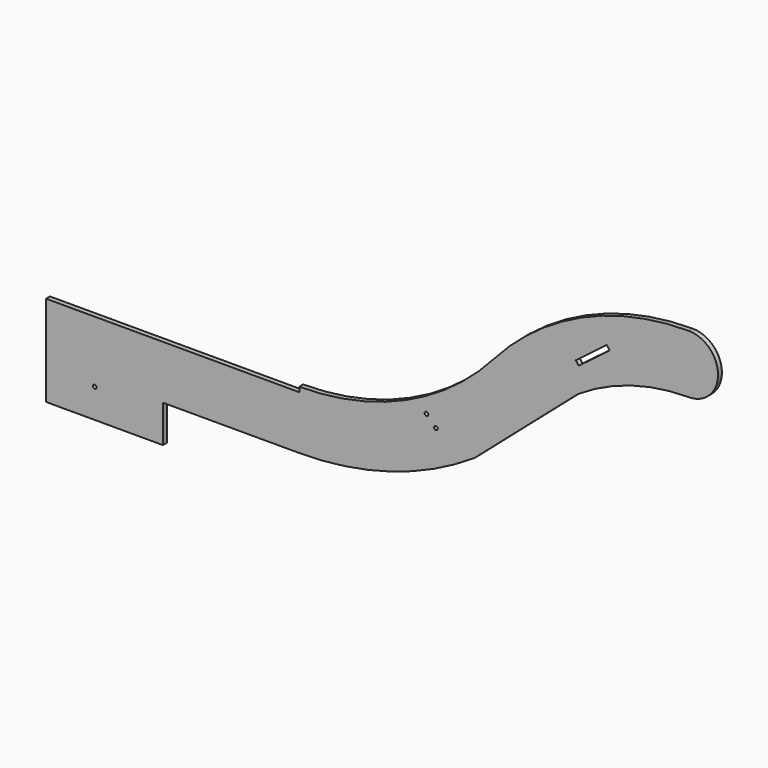
from build123d import *

# Parameters (mm, degrees)
F0_R     = 4.7625
F1_DEPTH = 12.7
F2_W     = 304.8
F2_H     = 97.490124
F2_R     = 4.7625
F3_DEPTH = 12.7


with BuildPart() as f1:
    # F0 (on Front) → F1 (new body)
    with BuildSketch(Plane.XZ):
        with BuildLine():
            ThreePointArc((-570.950153, 813.38195), (-800.269597, 644.048616), (-1078.950153, 584.062505))
            Line((-1078.950153, 584.062505), (-1078.950153, 571.362505))
            Line((-1078.950153, 571.362505), (-1739.350153, 571.362505))
            Line((-1739.350153, 571.362505), (-1739.350153, 517.387505))
            Line((-1739.350153, 517.387505), (-1739.350153, 498.337505))
            Line((-1739.350153, 498.337505), (-1739.350153, 431.662505))
            Line((-1739.350153, 431.662505), (-1078.950153, 431.662505))
            ThreePointArc((-1078.950153, 431.662505), (-840.528034, 466.655442), (-622.216208, 568.682689))
            Line((-622.216208, 568.682689), (-351.904281, 803.615156))
            ThreePointArc((-351.904281, 803.615156), (-213.788636, 868.163006), (-62.950153, 890.301394))
            ThreePointArc((-62.950153, 890.301394), (13.249847, 966.501394), (-62.950153, 1042.701394))
            ThreePointArc((-62.950153, 1042.701394), (-341.630708, 982.715283), (-570.950153, 813.38195))
        make_face()
        with Locations((-722.51368, 604.881358)):
            Circle(F0_R, mode=Mode.SUBTRACT)
        with Locations((-747.209384, 629.577062)):
            Circle(F0_R, mode=Mode.SUBTRACT)
        Polygon((-357.898706, 879.210343), (-317.464643, 909.96301), (-277.03058, 940.715678), (-269.342413, 930.607162), (-350.210539, 869.101827), align=None, mode=Mode.SUBTRACT)
    extrude(amount=F1_DEPTH)

    # F2 (on face) → F3 (join)
    with BuildSketch(Plane.XZ.offset(12.7)):
        with Locations((-1586.950153, 382.917443)):
            Rectangle(F2_W, F2_H)
        with Locations((-1612.350153, 410.372381)):
            Circle(F2_R, mode=Mode.SUBTRACT)
    extrude(amount=-F3_DEPTH)


solid = f1.part
